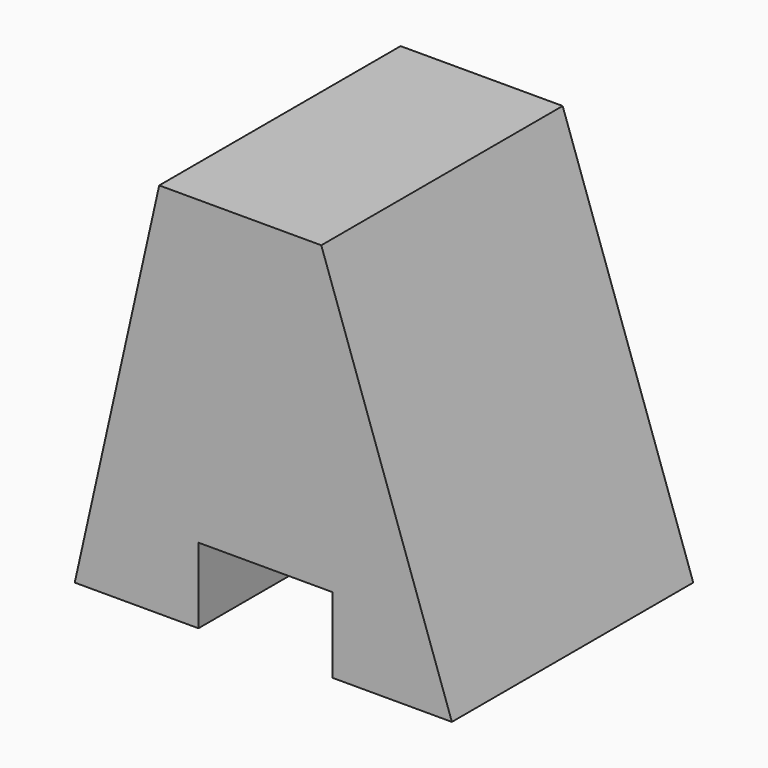
from build123d import *

# Parameters (mm, degrees)
F1_DEPTH = 25.4
F3_DEPTH = 25.4
F5_DEPTH = 25.4
F6_W     = 11.27199
F6_H     = 6.35
F7_DEPTH = 25.4


with BuildPart() as f1:
    # F0 (on Front) → F1 (new body)
    with BuildSketch(Plane.XZ):
        Polygon((-19.05, 0), (0, 0), (12.7, 0), (12.7, 31.75), (-19.05, 31.75), align=None)
    extrude(amount=F1_DEPTH)

    # F2 (on face) → F3 (cut)
    with BuildSketch(Plane.XZ.offset(25.4)):
        Polygon((12.7, 0), (12.7, 31.75), (1.705643, 31.75), align=None)
    extrude(amount=-F3_DEPTH, mode=Mode.SUBTRACT)

    # F4 (on face) → F5 (cut)
    with BuildSketch(Plane.XZ.offset(25.4)):
        Polygon((-11.939476, 31.75), (-19.05, 31.75), (-19.05, 0), align=None)
    extrude(amount=-F5_DEPTH, mode=Mode.SUBTRACT)

    # F6 (on face) → F7 (cut)
    with BuildSketch(Plane.XZ.offset(25.4)):
        with Locations((-3.000005, 3.175)):
            Rectangle(F6_W, F6_H)
    extrude(amount=-F7_DEPTH, mode=Mode.SUBTRACT)


solid = f1.part
